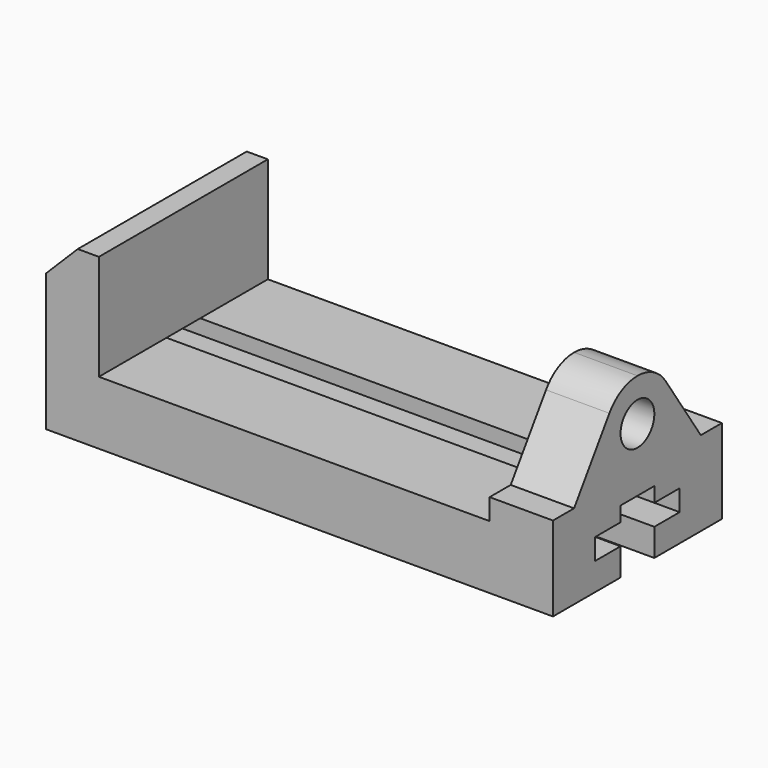
from build123d import *

# Parameters (mm, degrees)
F0_R     = 12.7
F1_DEPTH = 38.1
F2_DEPTH = 266.7
F3_SIZE2 = 19.05
F3_SIZE  = 19.05
F5_DEPTH = 127.001


with BuildPart() as f1:
    # F0 (on Right) → F1 (new body)
    with BuildSketch(Plane.YZ):
        with BuildLine():
            Line((0, 50.8), (0, 0))
            Line((0, 0), (50.8, 0))
            Line((50.8, 0), (50.8, 16.51))
            Line((50.8, 16.51), (31.75, 16.51))
            Line((31.75, 16.51), (31.75, 29.21))
            Line((31.75, 29.21), (50.8, 29.21))
            Line((50.8, 29.21), (50.8, 38.1))
            Line((50.8, 38.1), (76.2, 38.1))
            Line((76.2, 38.1), (76.2, 29.21))
            Line((76.2, 29.21), (95.25, 29.21))
            Line((95.25, 29.21), (95.25, 16.51))
            Line((95.25, 16.51), (76.2, 16.51))
            Line((76.2, 16.51), (76.2, 0))
            Line((76.2, 0), (127, 0))
            Line((127, 0), (127, 50.8))
            Line((127, 50.8), (111.125, 50.8))
            Line((111.125, 50.8), (84.593426, 90.350173))
            ThreePointArc((84.593426, 90.350173), (75.452941, 98.611765), (63.5, 101.6))
            ThreePointArc((63.5, 101.6), (51.547059, 98.611765), (42.406574, 90.350173))
            Line((42.406574, 90.350173), (15.875, 50.8))
            Line((15.875, 50.8), (0, 50.8))
        make_face()
        with Locations((63.5, 76.2)):
            Circle(F0_R, mode=Mode.SUBTRACT)
    extrude(amount=F1_DEPTH)

    # F0 (on Right) → F2 (join)
    with BuildSketch(Plane.YZ):
        with BuildLine():
            Line((127, 101.6), (63.5, 101.6))
            ThreePointArc((63.5, 101.6), (75.452941, 98.611765), (84.593426, 90.350173))
            Line((84.593426, 90.350173), (111.125, 50.8))
            Line((111.125, 50.8), (127, 50.8))
            Line((127, 50.8), (127, 101.6))
        make_face()
        with BuildLine():
            Line((0, 101.6), (0, 50.8))
            Line((0, 50.8), (15.875, 50.8))
            Line((15.875, 50.8), (42.406574, 90.350173))
            ThreePointArc((42.406574, 90.350173), (51.547059, 98.611765), (63.5, 101.6))
            Line((63.5, 101.6), (0, 101.6))
        make_face()
        with BuildLine():
            Line((0, 50.8), (0, 0))
            Line((0, 0), (50.8, 0))
            Line((50.8, 0), (50.8, 16.51))
            Line((50.8, 16.51), (31.75, 16.51))
            Line((31.75, 16.51), (31.75, 29.21))
            Line((31.75, 29.21), (50.8, 29.21))
            Line((50.8, 29.21), (50.8, 38.1))
            Line((50.8, 38.1), (76.2, 38.1))
            Line((76.2, 38.1), (76.2, 29.21))
            Line((76.2, 29.21), (95.25, 29.21))
            Line((95.25, 29.21), (95.25, 16.51))
            Line((95.25, 16.51), (76.2, 16.51))
            Line((76.2, 16.51), (76.2, 0))
            Line((76.2, 0), (127, 0))
            Line((127, 0), (127, 50.8))
            Line((127, 50.8), (111.125, 50.8))
            Line((111.125, 50.8), (84.593426, 90.350173))
            ThreePointArc((84.593426, 90.350173), (75.452941, 98.611765), (63.5, 101.6))
            ThreePointArc((63.5, 101.6), (51.547059, 98.611765), (42.406574, 90.350173))
            Line((42.406574, 90.350173), (15.875, 50.8))
            Line((15.875, 50.8), (0, 50.8))
        make_face()
        with Locations((63.5, 76.2)):
            Circle(F0_R, mode=Mode.SUBTRACT)
        with Locations((63.5, 76.2)):
            Circle(F0_R)
    extrude(amount=-F2_DEPTH)

    # F3
    f3_edges = [f1.edges().sort_by_distance(p)[0] for p in [
        (-266.7, 63.5, 101.6),
    ]]
    chamfer(f3_edges, length=F3_SIZE, length2=F3_SIZE2)

    # F4 (on face) → F5 (cut, through all)
    with BuildSketch(Plane.XZ):
        Polygon((0, 101.6), (-234.95, 101.6), (-234.95, 38.1), (0, 38.1), (0, 50.8), align=None)
    extrude(amount=-F5_DEPTH, mode=Mode.SUBTRACT)


solid = f1.part
